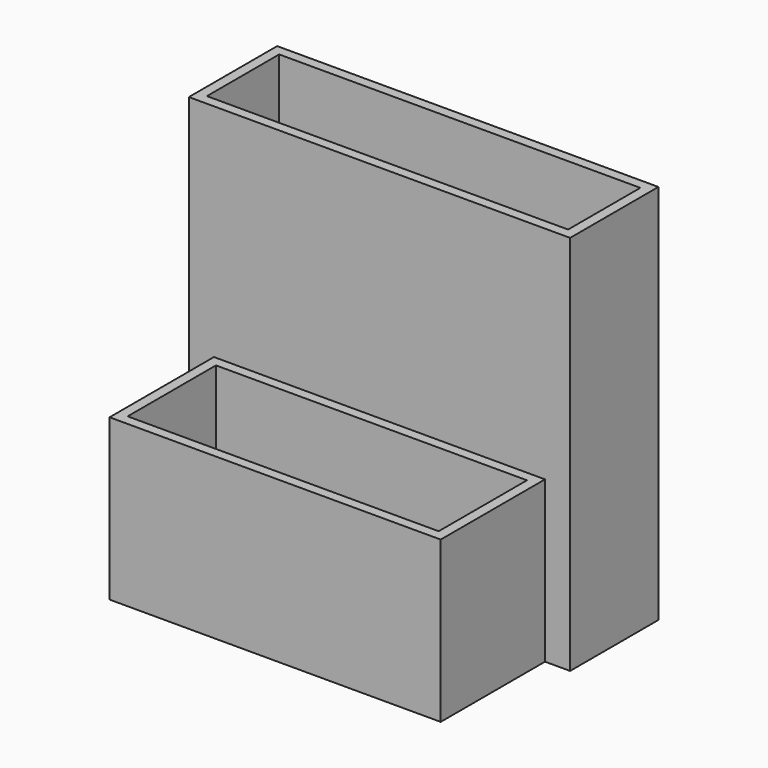
from build123d import *

# Parameters (mm, degrees)
SKETCH_W        = 76
SKETCH_H        = 22
PAD_DEPTH       = 76
SKETCH001_W     = 66
SKETCH001_H     = 26
PAD001_DEPTH    = 32
SKETCH002_W     = 62
SKETCH002_H     = 22
POCKET_DEPTH    = 30
SKETCH003_W     = 72
SKETCH003_H     = 18
POCKET001_DEPTH = 74


with BuildPart() as part:
    # Sketch → Pad (new body)
    with BuildSketch(Plane.XY):
        with Locations((38, 11)):
            Rectangle(SKETCH_W, SKETCH_H)
    extrude(amount=PAD_DEPTH)

    # Sketch001 → Pad001 (join)
    with BuildSketch(Plane.XY):
        with Locations((38, -13)):
            Rectangle(SKETCH001_W, SKETCH001_H)
    extrude(amount=PAD001_DEPTH)

    # Sketch002 (on Face4 of Pad001) → Pocket (cut)
    with BuildSketch(Plane.XY.offset(32)):
        with Locations((38, -13)):
            Rectangle(SKETCH002_W, SKETCH002_H)
    extrude(amount=-POCKET_DEPTH, mode=Mode.SUBTRACT)

    # Sketch003 (on Face7 of Pocket) → Pocket001 (cut)
    with BuildSketch(Plane.XY.offset(76)):
        with Locations((38, 11)):
            Rectangle(SKETCH003_W, SKETCH003_H)
    extrude(amount=-POCKET001_DEPTH, mode=Mode.SUBTRACT)


solid = part.part
